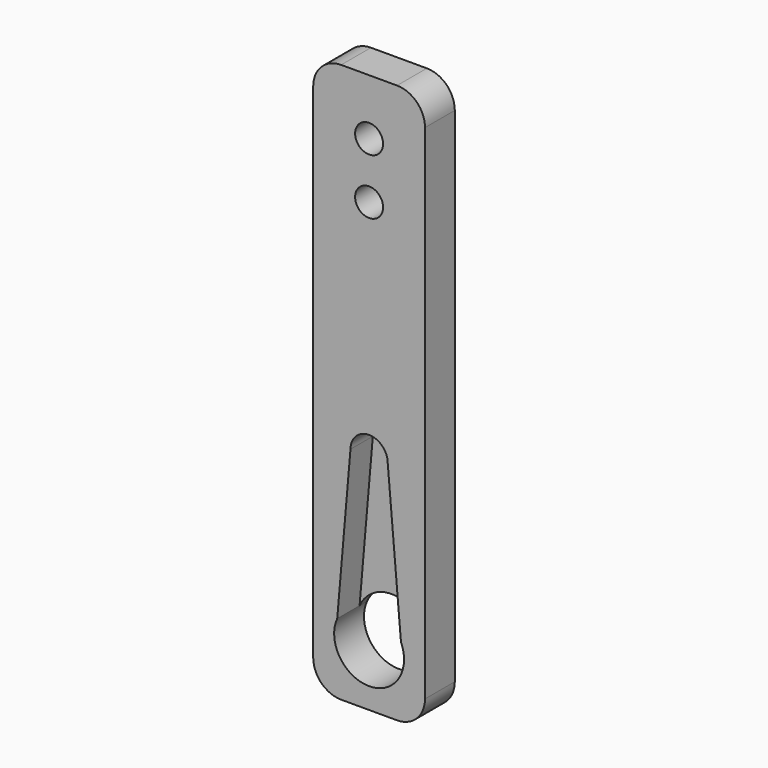
from build123d import *

# Parameters (mm, degrees)
F0_R     = 1.5
F1_DEPTH = 4
F2_DEPTH = 1


with BuildPart() as f1:
    # F0 (on Front) → F1 (new body)
    with BuildSketch(Plane.XZ):
        with BuildLine():
            Line((-3, -30), (3, -30))
            ThreePointArc((3, -30), (5.12132, -29.12132), (6, -27))
            Line((6, -27), (6, 27))
            ThreePointArc((6, 27), (5.12132, 29.12132), (3, 30))
            Line((3, 30), (-3, 30))
            ThreePointArc((-3, 30), (-5.12132, 29.12132), (-6, 27))
            Line((-6, 27), (-6, -27))
            ThreePointArc((-6, -27), (-5.12132, -29.12132), (-3, -30))
        make_face()
        with BuildLine():
            ThreePointArc((3.75, -24), (-0.784385, -27.667048), (-3.421861, -22.465932))
            Line((-3.421861, -22.465932), (-2, -6))
            ThreePointArc((-2, -6), (0, -4), (2, -6))
            Line((2, -6), (3.421861, -22.465932))
            ThreePointArc((3.421861, -22.465932), (3.667048, -23.215615), (3.75, -24))
        make_face(mode=Mode.SUBTRACT)
        with Locations((0, 18)):
            Circle(F0_R, mode=Mode.SUBTRACT)
        with Locations((0, 24)):
            Circle(F0_R, mode=Mode.SUBTRACT)
    extrude(amount=F1_DEPTH)

    # F0 (on Front) → F2 (join)
    with BuildSketch(Plane.XZ):
        with BuildLine():
            Line((-2, -6), (-3.421861, -22.465932))
            ThreePointArc((-3.421861, -22.465932), (0, -20.25), (3.421861, -22.465932))
            Line((3.421861, -22.465932), (2, -6))
            ThreePointArc((2, -6), (0, -4), (-2, -6))
        make_face()
    extrude(amount=F2_DEPTH)


solid = f1.part
